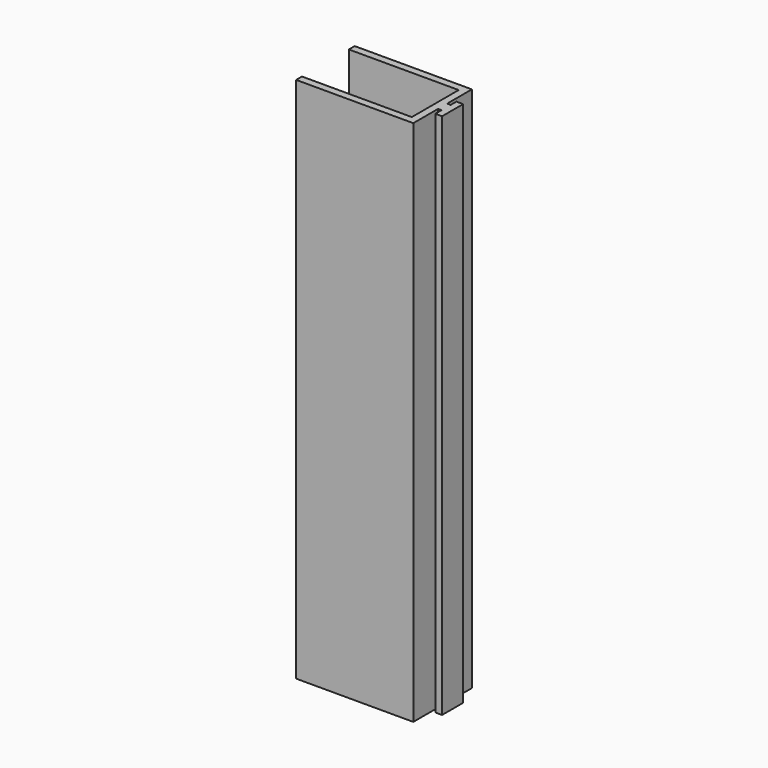
from build123d import *

# Parameters (mm, degrees)
SKETCH_W     = 40
SKETCH_H     = 25
PAD_DEPTH    = 180
SKETCH001_W  = 39.599754
SKETCH001_H  = 20
POCKET_DEPTH = 172.5
SKETCH002_W  = 1.967115
SKETCH002_H  = 3.9
PAD001_DEPTH = 180
SKETCH003_W  = 2.3
SKETCH003_H  = 9
PAD002_DEPTH = 180


with BuildPart() as part:
    # Sketch → Pad (new body)
    with BuildSketch(Plane.XY):
        Rectangle(SKETCH_W, SKETCH_H)
    extrude(amount=PAD_DEPTH)

    # Sketch001 (on Face6 of Pad) → Pocket (cut)
    with BuildSketch(Plane.XY.offset(180)):
        with Locations((-2.299877, 0)):
            Rectangle(SKETCH001_W, SKETCH001_H)
    extrude(amount=-POCKET_DEPTH, mode=Mode.SUBTRACT)

    # Sketch002 (on Face5 of Pocket) → Pad001 (join)
    with BuildSketch(Plane.XY.offset(180)):
        with Locations((20.2164425, 0)):
            Rectangle(SKETCH002_W, SKETCH002_H)
    extrude(amount=-PAD001_DEPTH)

    # Sketch003 (on DatumPlane) → Pad002 (join)
    with BuildSketch(Plane.XY.offset(180)):
        with Locations((22.35, -0.0960954544)):
            Rectangle(SKETCH003_W, SKETCH003_H)
    extrude(amount=-PAD002_DEPTH)


solid = part.part
